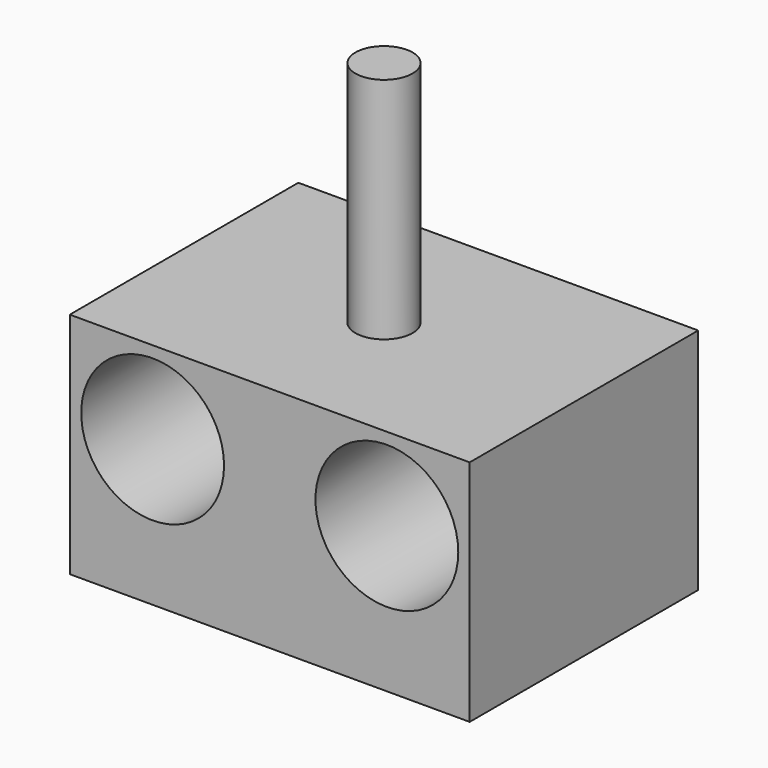
from build123d import *

# Parameters (mm, degrees)
F0_W     = 70
F0_H     = 50
F1_DEPTH = 40
F2_R     = 5
F3_DEPTH = 40
F4_R     = 12.5
F5_DEPTH = 30
F6_R     = 12.5
F7_DEPTH = 25


with BuildPart() as f1:
    # F0 (on Top) → F1 (new body)
    with BuildSketch(Plane.XY):
        Rectangle(F0_W, F0_H)
    extrude(amount=F1_DEPTH)

    # F2 (on face) → F3 (join)
    with BuildSketch(Plane.XY.offset(40)):
        Circle(F2_R)
    extrude(amount=F3_DEPTH)

    # F4 (on face) → F5 (cut)
    with BuildSketch(Plane.XZ.offset(25)):
        with Locations((-20.5, 25.5)):
            Circle(F4_R)
    extrude(amount=-F5_DEPTH, mode=Mode.SUBTRACT)

    # F6 (on face) → F7 (cut)
    with BuildSketch(Plane.XZ.offset(25)):
        with Locations((20.5, 25.5)):
            Circle(F6_R)
    extrude(amount=-F7_DEPTH, mode=Mode.SUBTRACT)


solid = f1.part
